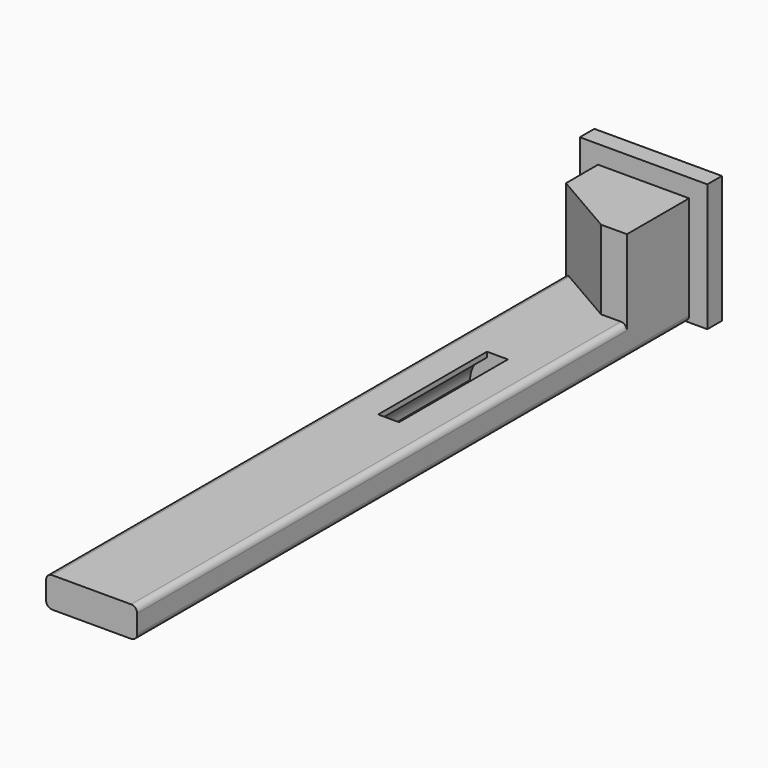
from build123d import *

# Parameters (mm, degrees)
F0_W          = 6.4
F0_H          = 6.5
F0_W_2        = 4
F0_H_2        = 2.5
F1_DEPTH      = 3.75
F2_SIZE2      = 5.3693575035
F2_SIZE       = 3.1
F3_W          = 10.5
F3_H          = 10.5
F4_DEPTH      = 1.5
F6_DEPTH      = 11
F6_DEPTH_BACK = 0.2
F7_R          = 0.5


with BuildPart() as f1:
    # F0 (on Right) → F1 (new body, symmetric)
    with BuildSketch(Plane.YZ):
        Polygon((15.24, 0), (15.24, 2.5), (8.84, 2.5), (-37.56, 2.5), (-37.56, 0), align=None)
        with Locations((12.04, 5.75)):
            Rectangle(F0_W, F0_H)
        with Locations((-39.56, 1.25)):
            Rectangle(F0_W_2, F0_H_2)
    extrude(amount=F1_DEPTH, both=True)

    # F2
    f2_edges = [f1.edges().sort_by_distance(p)[0] for p in [
        (-3.75, 8.84, 5.75),
    ]]
    f2_side = f1.faces().sort_by_distance((-3.75, -7.450196, 2.269608))[0]
    chamfer(f2_edges, length=F2_SIZE, length2=F2_SIZE2, reference=f2_side)

    # F3 (on face) → F4 (join)
    with BuildSketch(Plane(origin=(0, 15.24, 0), x_dir=(-1, 0, 0), z_dir=(0, 1, 0))):
        with Locations((0, 5.25)):
            Rectangle(F3_W, F3_H)
    extrude(amount=F4_DEPTH)

    # F5 (on Front) → F6 (cut, two sides)
    with BuildSketch(Plane.XZ) as f6_sk:
        with BuildLine():
            ThreePointArc((-0.8610377228, 2.0787289482), (-1.8708066277, 1.2500330243), (-2.25, 0))
            Line((-2.25, 0), (-0.8610377228, 0))
            Line((-0.8610377228, 0), (-0.8610377228, 2.0787289482))
        make_face()
        with BuildLine():
            Line((-0.8610377228, 4.6336889094), (-0.8610377228, 2.0787289482))
            ThreePointArc((-0.8610377228, 2.0787289482), (0, 2.25), (0.8610377228, 2.0787289482))
            Line((0.8610377228, 2.0787289482), (0.8610377228, 4.6336889094))
            Line((0.8610377228, 4.6336889094), (-0.8610377228, 4.6336889094))
        make_face()
        with BuildLine():
            ThreePointArc((0.8610377228, 2.0787289482), (0, 2.25), (-0.8610377228, 2.0787289482))
            Line((-0.8610377228, 2.0787289482), (-0.8610377228, 0))
            Line((-0.8610377228, 0), (0.8610377228, 0))
            Line((0.8610377228, 0), (0.8610377228, 2.0787289482))
        make_face()
        with BuildLine():
            ThreePointArc((2.25, 0), (1.8708066277, 1.2500330243), (0.8610377228, 2.0787289482))
            Line((0.8610377228, 2.0787289482), (0.8610377228, 0))
            Line((0.8610377228, 0), (2.25, 0))
        make_face()
    extrude(amount=F6_DEPTH, mode=Mode.SUBTRACT)
    extrude(f6_sk.sketch, amount=-F6_DEPTH_BACK, mode=Mode.SUBTRACT)

    # F7
    f7_edges = [f1.edges().sort_by_distance(p)[0] for p in [
        (-3.75, -13.16, 0),
        (-3.75, -14.81, 2.5),
        (3.75, -16.36, 2.5),
        (3.75, -13.16, 0),
    ]]
    fillet(f7_edges, radius=F7_R)


solid = f1.part
